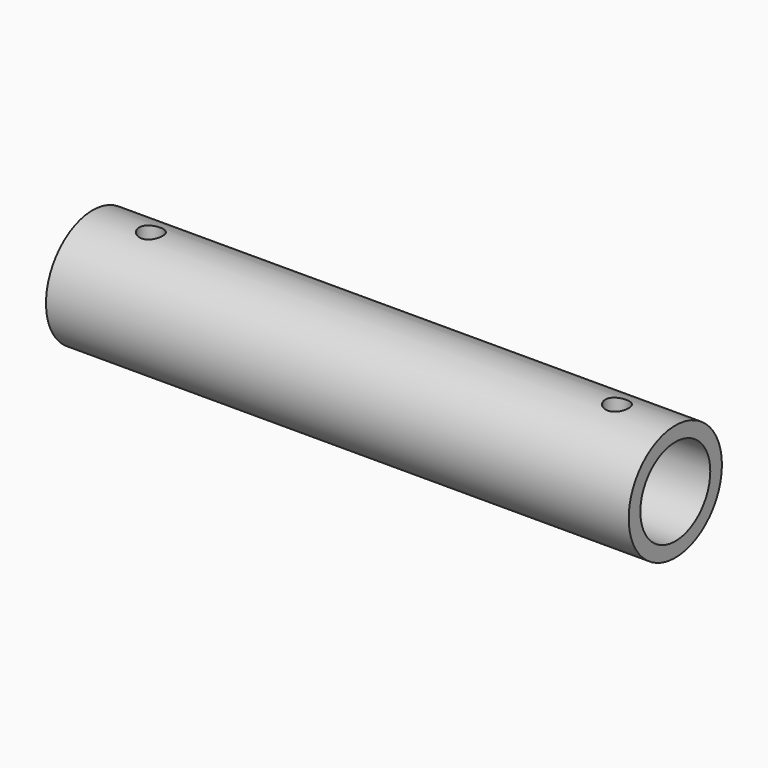
from build123d import *

# Parameters (mm, degrees)
F0_R     = 12.7
F0_R_2   = 9.525
F1_DEPTH = 127
F4_D     = 5.1054
F4_DEPTH = 12.7
F4_START = 0.2591913
F4_TIP   = 1.5338169022


with BuildPart() as f1:
    # F0 (on Right) → F1 (new body)
    with BuildSketch(Plane.YZ):
        Circle(F0_R)
        Circle(F0_R_2, mode=Mode.SUBTRACT)
    extrude(amount=F1_DEPTH)

    # F4
    # its depths count from where the whole tool has entered the part; down to there all is cleared
    with Locations(Plane.XY.offset(12.7).offset(-F4_START)):
        with Locations((12.7, 0), (114.3, 0)):
            Hole(F4_D / 2, depth=F4_DEPTH)
            with Locations((0, 0, -(F4_DEPTH + F4_TIP / 2))):  # 118° drill point
                Cone(0, F4_D / 2, F4_TIP, mode=Mode.SUBTRACT)


solid = f1.part
